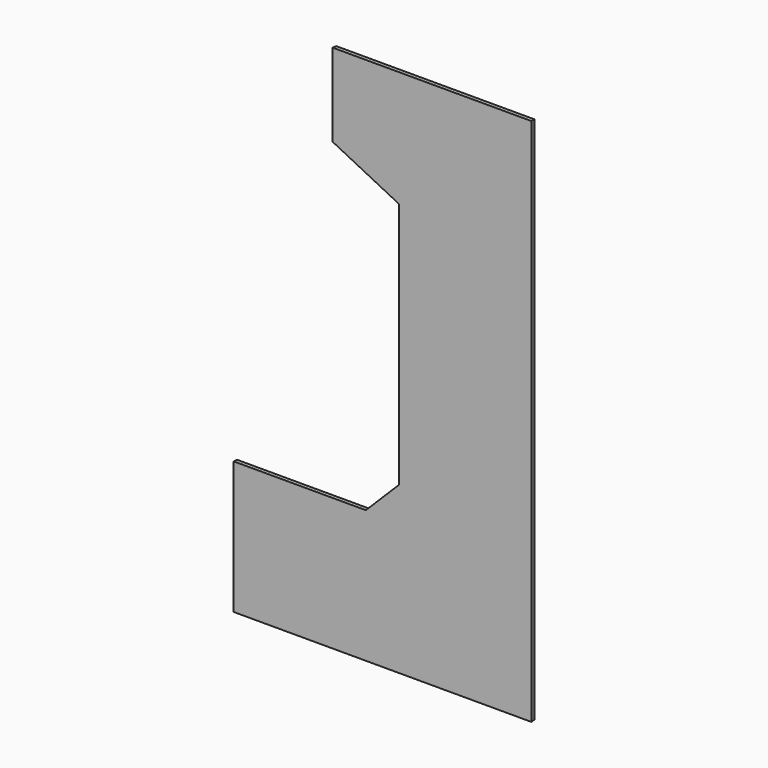
from build123d import *

# Parameters (mm, degrees)
F1_DEPTH = 6.35
F1_TAPER = -3


with BuildPart() as f1:
    # F0 (on Front) → F1 (new body)
    with BuildSketch(Plane.XZ):
        Polygon((50.8, -152.185426528), (-152.4, -152.185426528), (-152.4, -355.385426528), (304.8, -355.385426528), (304.8, 457.414573472), (0, 457.414573472), (0, 330.414573472), (101.6, 279.614573472), (101.6, -101.385426528), align=None)
    extrude(amount=F1_DEPTH, taper=F1_TAPER)


solid = f1.part
